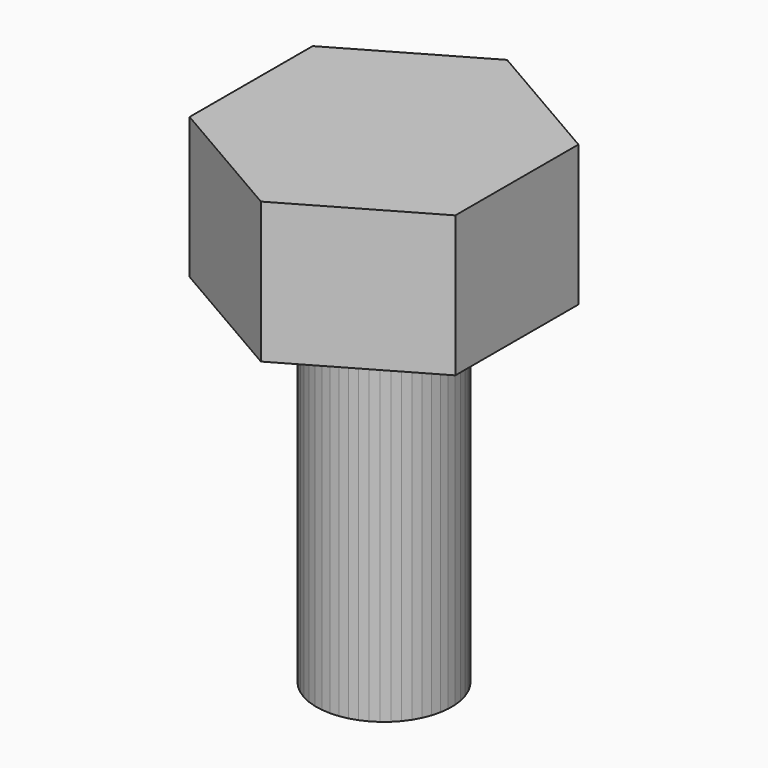
from build123d import *

# Parameters (mm, degrees)
F1_DEPTH = 37.31955
F3_DEPTH = 91.25553


with BuildPart() as f1:
    # F0 (on Top) → F1 (new body)
    with BuildSketch(Plane.XY):
        Polygon((0.053161, 40.694447), (-35.215844, 20.393262), (-35.269005, -20.301185), (-0.053161, -40.694447), (35.215844, -20.393262), (35.269005, 20.301185), align=None)
    extrude(amount=F1_DEPTH)

    # F2 (on face) → F3 (join)
    with BuildSketch(Plane(origin=(0, 0, 0), x_dir=(1, 0, 0), z_dir=(0, 0, -1))):
        Polygon((-17.879331, 1.124872), (-17.879331, -1.124872), (-17.597364, -3.356877), (-17.037875, -5.535941), (-16.209689, -7.627701), (-15.125866, -9.599167), (-13.8035, -11.419248), (-12.263444, -13.059241), (-10.529986, -14.493282), (-8.630464, -15.698756), (-6.594834, -16.65665), (-4.4552, -17.351859), (-2.245305, -17.773419), (0, -17.914682), (2.245305, -17.773419), (4.4552, -17.351859), (6.594834, -16.65665), (8.630464, -15.698756), (10.529986, -14.493282), (12.263444, -13.059241), (13.8035, -11.419248), (15.125866, -9.599167), (16.209689, -7.627701), (17.037875, -5.535941), (17.597364, -3.356877), (17.879331, -1.124872), (17.879331, 1.124872), (17.597364, 3.356877), (17.037875, 5.535941), (16.209689, 7.627701), (15.125866, 9.599167), (13.8035, 11.419248), (12.263444, 13.059241), (10.529986, 14.493282), (8.630464, 15.698756), (6.594834, 16.65665), (4.4552, 17.351859), (2.245305, 17.773419), (0, 17.914682), (-2.245305, 17.773419), (-4.4552, 17.351859), (-6.594834, 16.65665), (-8.630464, 15.698756), (-10.529986, 14.493282), (-12.263444, 13.059241), (-13.8035, 11.419248), (-15.125866, 9.599167), (-16.209689, 7.627701), (-17.037875, 5.535941), (-17.597364, 3.356877), align=None)
    extrude(amount=F3_DEPTH)


solid = f1.part
